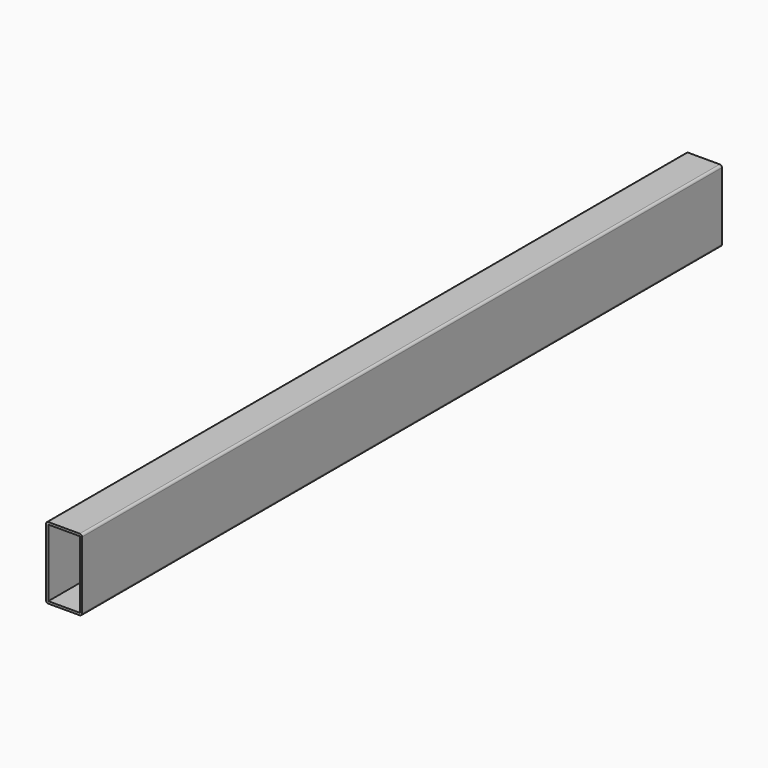
from build123d import *

# Parameters (mm, degrees)
F0_W     = 88.9
F0_H     = 190.5
F1_DEPTH = 2260.6


with BuildPart() as f1:
    # F0 (on Front) → F1 (new body)
    with BuildSketch(Plane.XZ):
        with BuildLine():
            Line((42.300776, 102.158077), (-46.599224, 102.158077))
            ThreePointArc((-46.599224, 102.158077), (-51.089352, 100.298206), (-52.949224, 95.808077))
            Line((-52.949224, 95.808077), (-52.949224, -94.691923))
            ThreePointArc((-52.949224, -94.691923), (-51.089352, -99.182051), (-46.599224, -101.041923))
            Line((-46.599224, -101.041923), (42.300776, -101.041923))
            ThreePointArc((42.300776, -101.041923), (46.790904, -99.182051), (48.650776, -94.691923))
            Line((48.650776, -94.691923), (48.650776, 95.808077))
            ThreePointArc((48.650776, 95.808077), (46.790904, 100.298206), (42.300776, 102.158077))
        make_face()
        with Locations((-2.149224, 0.558077)):
            Rectangle(F0_W, F0_H, mode=Mode.SUBTRACT)
    extrude(amount=F1_DEPTH)


solid = f1.part
